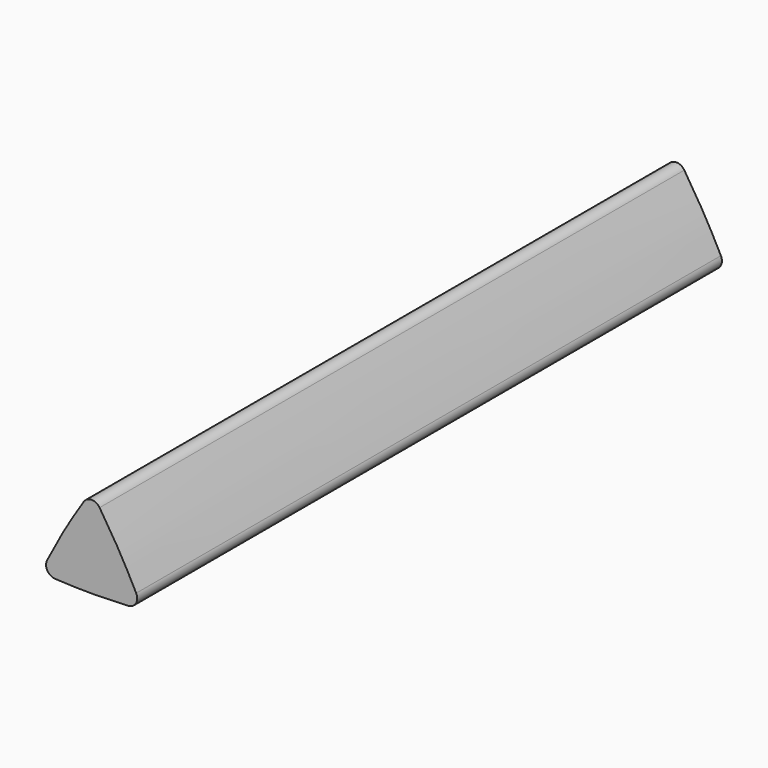
from build123d import *

# Parameters (mm, degrees)
F1_DEPTH = 38.6


with BuildPart() as f1:
    # F0 (on Front) → F1 (new body)
    with BuildSketch(Plane.XZ):
        with BuildLine():
            add(Edge.make_bspline(
                [(0.347833, 0.685448), (0.641423, 1.259751), (1.241216, 2.401075), (1.929735, 3.491173), (2.280301, 4.032581)],
                knots=[0.768058, 0.768058, 0.768058, 0.768058, 2.701851, 4.635644, 4.635644, 4.635644, 4.635644], degree=3))
            ThreePointArc((0.347833, 0.685448), (0.360019, 0.207857), (0.767532, -0.041492))
            add(Edge.make_bspline(
                [(4.632468, -0.041492), (3.988312, -0.074387), (2.7, -0.125613), (1.411688, -0.074387), (0.767532, -0.041492)],
                knots=[0.768058, 0.768058, 0.768058, 0.768058, 2.701851, 4.635644, 4.635644, 4.635644, 4.635644], degree=3))
            ThreePointArc((4.632468, -0.041492), (5.039981, 0.207857), (5.052167, 0.685448))
            add(Edge.make_bspline(
                [(3.119699, 4.032581), (3.470265, 3.491173), (4.158784, 2.401075), (4.758577, 1.259751), (5.052167, 0.685448)],
                knots=[0.768058, 0.768058, 0.768058, 0.768058, 2.701851, 4.635644, 4.635644, 4.635644, 4.635644], degree=3))
            ThreePointArc((3.119699, 4.032581), (2.7, 4.260823), (2.280301, 4.032581))
        make_face()
    extrude(amount=F1_DEPTH)


solid = f1.part
